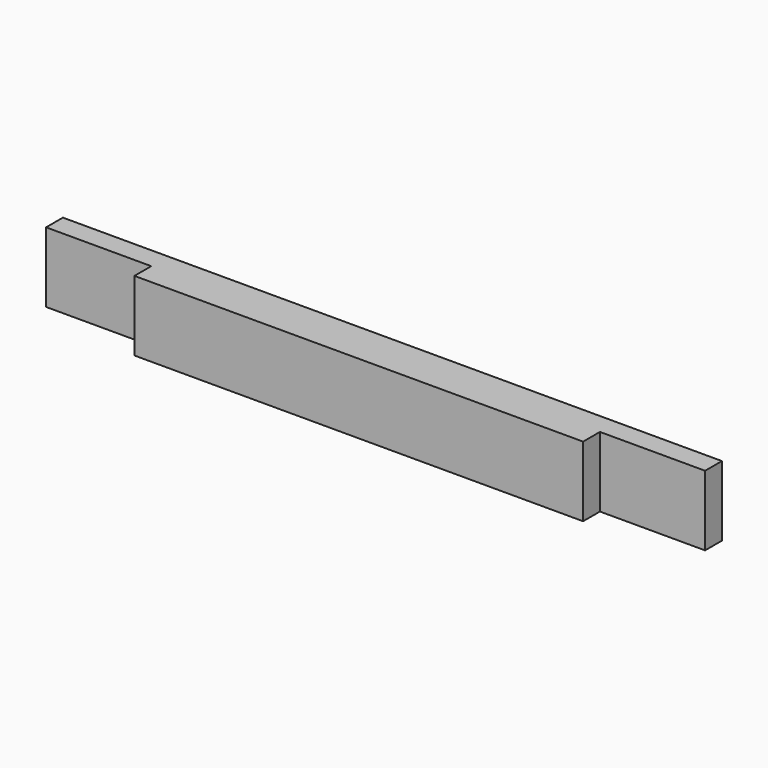
from build123d import *

# Parameters (mm, degrees)
F0_W     = 94
F0_H     = 6
F1_DEPTH = 10
F2_W     = 15
F2_H     = 10
F3_DEPTH = 3


with BuildPart() as f1:
    # F0 (on Top) → F1 (new body)
    with BuildSketch(Plane.XY):
        Rectangle(F0_W, F0_H)
    extrude(amount=F1_DEPTH)

    # F2 (on face) → F3 (cut)
    with BuildSketch(Plane.XZ.offset(3)):
        with Locations((39.5, 5)):
            Rectangle(F2_W, F2_H)
        with Locations((-39.5, 5)):
            Rectangle(F2_W, F2_H)
    extrude(amount=-F3_DEPTH, mode=Mode.SUBTRACT)


solid = f1.part
